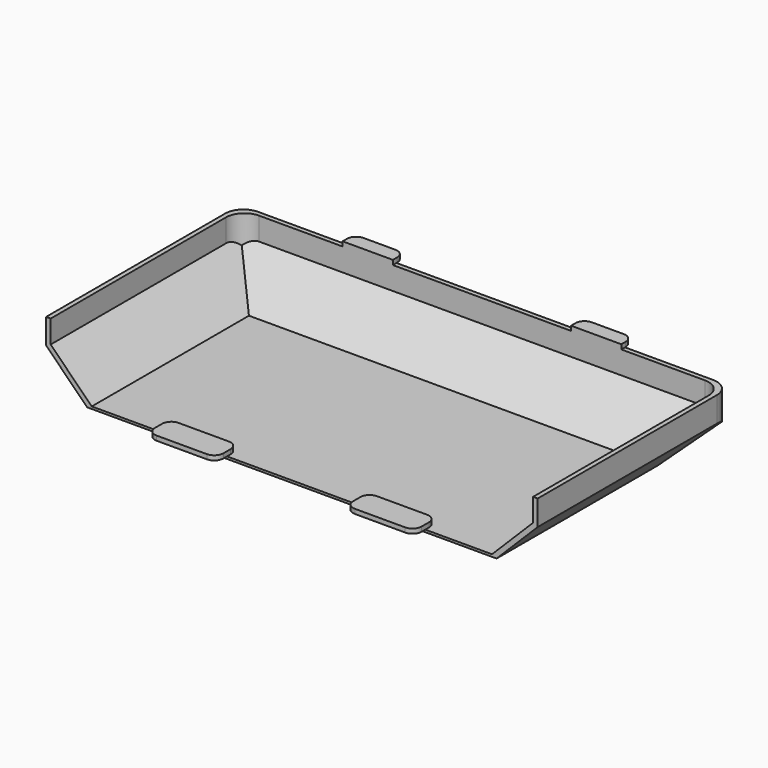
from build123d import *

# Parameters (mm, degrees)
F0_W     = 107.6
F0_H     = 53
F1_DEPTH = 14.5
F2_W     = 105.6
F2_H     = 52
F3_DEPTH = 14
F4_SIZE  = 9
F5_W     = 11
F5_H     = 3.2
F6_DEPTH = 1
F7_W     = 15
F7_H     = 6
F8_DEPTH = 1
F9_R     = 2
F10_R    = 4


with BuildPart() as f1:
    # F0 (on Top) → F1 (new body)
    with BuildSketch(Plane.XY):
        Rectangle(F0_W, F0_H)
    extrude(amount=F1_DEPTH)

    # F2 (on face) → F3 (cut)
    with BuildSketch(Plane.XY.offset(14.5)):
        with Locations((0, -0.5)):
            Rectangle(F2_W, F2_H)
    extrude(amount=-F3_DEPTH, mode=Mode.SUBTRACT)

    # F4
    f4_edges = [f1.edges().sort_by_distance(p)[0] for p in [
        (53.8, 0, 0),
        (0, 26.5, 0),
        (-53.8, 0, 0),
        (-52.8, -0.5, 0.5),
        (0, 25.5, 0.5),
        (52.8, -0.5, 0.5),
    ]]
    chamfer(f4_edges, length=F4_SIZE)

    # F5 (on face) → F6 (join)
    with BuildSketch(Plane.XY.offset(14.5)):
        with Locations((-25, 27.1)):
            Rectangle(F5_W, F5_H)
        with Locations((25, 27.1)):
            Rectangle(F5_W, F5_H)
    extrude(amount=F6_DEPTH)

    # F7 (on face) → F8 (join)
    with BuildSketch(Plane.XY.offset(0.5)):
        with Locations((-21.7, -26.5)):
            Rectangle(F7_W, F7_H)
        with Locations((21.7, -26.5)):
            Rectangle(F7_W, F7_H)
    extrude(amount=F8_DEPTH)

    # F9
    f9_edges = [f1.edges().sort_by_distance(p)[0] for p in [
        (-29.2, -29.5, 1),
        (-14.2, -29.5, 1),
        (14.2, -29.5, 1),
        (29.2, -29.5, 1),
        (29.2, -23.5, 1),
        (14.2, -23.5, 1),
        (-29.2, -23.5, 1),
        (-14.2, -23.5, 1),
        (30.5, 28.7, 15),
        (19.5, 28.7, 15),
        (-19.5, 28.7, 15),
        (-30.5, 28.7, 15),
    ]]
    fillet(f9_edges, radius=F9_R)

    # F10
    f10_edges = [f1.edges().sort_by_distance(p)[0] for p in [
        (53.8, 26.5, 11.75),
        (52.8, 25.5, 12),
        (-52.8, 25.5, 12),
        (-53.8, 26.5, 11.75),
    ]]
    fillet(f10_edges, radius=F10_R)


solid = f1.part
